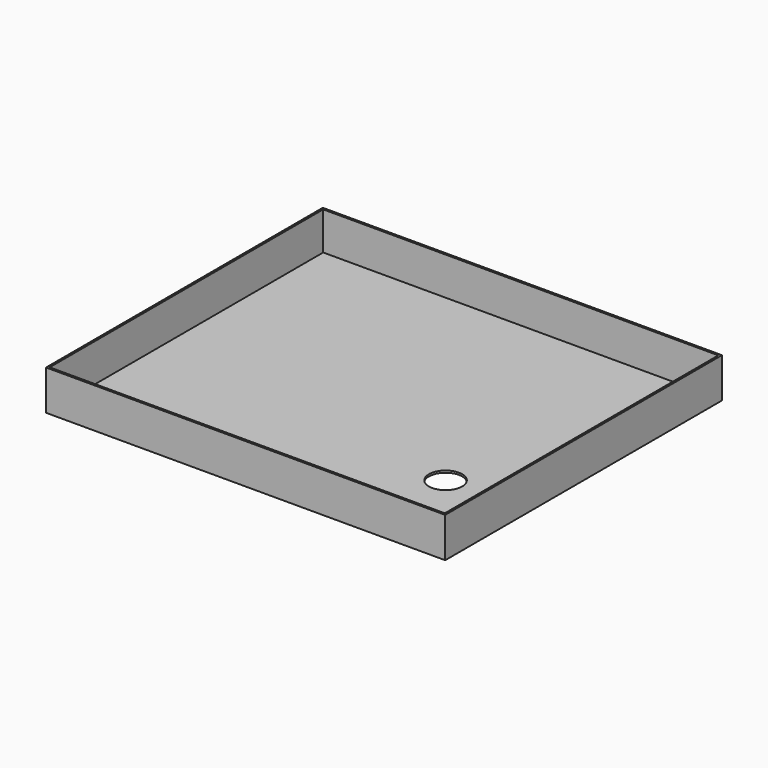
from build123d import *

# Parameters (mm, degrees)
F0_W     = 762
F0_H     = 660.4
F1_DEPTH = 76.2
F2_T     = -3.81
F3_R     = 31.75
F4_DEPTH = 3.811


with BuildPart() as f1:
    # F0 (on Top) → F1 (new body)
    with BuildSketch(Plane.XY):
        with Locations((-71.169143, 69.000456)):
            Rectangle(F0_W, F0_H)
    extrude(amount=F1_DEPTH)

    # F2
    f2_openings = [f1.faces().sort_by_distance(p)[0] for p in [
        (-71.169143, 69.000456, 76.2),
    ]]
    offset(amount=F2_T, openings=f2_openings)

    # F3 (on face) → F4 (cut, through all)
    with BuildSketch(Plane.XY.offset(3.81)):
        with Locations((153.620857, -65.028675)):
            Circle(F3_R)
    extrude(amount=-F4_DEPTH, mode=Mode.SUBTRACT)


solid = f1.part
